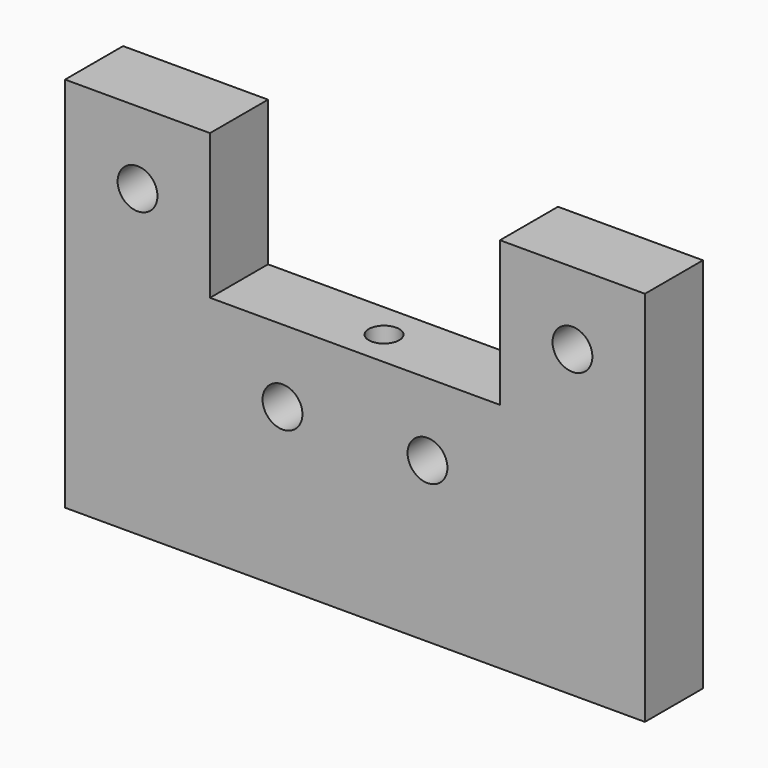
from build123d import *

# Parameters (mm, degrees)
F1_DEPTH = 10
F3_D     = 5.5
F5_D     = 4.2
F5_DEPTH = 14.4
F5_TIP   = 1.2618073


with BuildPart() as f1:
    # F0 (on Front) → F1 (new body)
    with BuildSketch(Plane.XZ):
        Polygon((-40, 26), (-40, -26), (40, -26), (40, 26), (20, 26), (20, 6), (-20, 6), (-20, 26), align=None)
    extrude(amount=F1_DEPTH)

    # F3 (through all)
    with Locations(Plane.XZ.offset(10)):
        with Locations((-30, 16), (-10, -4), (10, -4), (30, 16)):
            Hole(F3_D / 2)

    # F5
    with Locations(Plane.XY.offset(6)):
        with Locations((0, -5.0000003539)):
            Hole(F5_D / 2, depth=F5_DEPTH)
            with Locations((0, 0, -(F5_DEPTH + F5_TIP / 2))):  # 118° drill point
                Cone(0, F5_D / 2, F5_TIP, mode=Mode.SUBTRACT)


solid = f1.part
